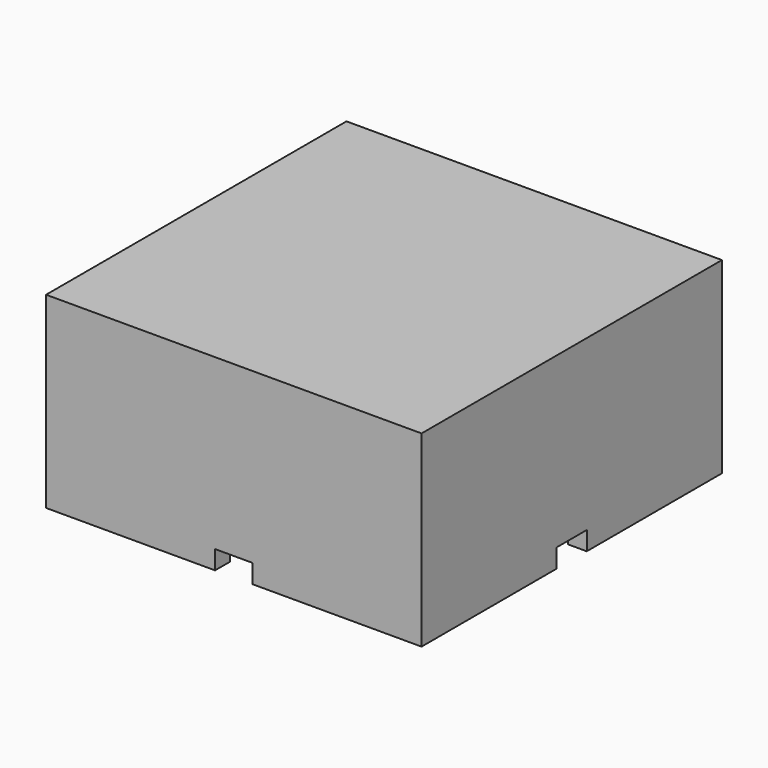
from build123d import *

# Parameters (mm, degrees)
BOX005_W     = 4
BOX005_H     = 2
BOX005_DEPTH = 2
BOX004_W     = 2
BOX004_H     = 4
BOX004_DEPTH = 2
BOX003_W     = 4
BOX003_H     = 2
BOX003_DEPTH = 2
BOX002_W     = 2
BOX002_H     = 4
BOX002_DEPTH = 2
BOX001_W     = 36
BOX001_H     = 36
BOX001_DEPTH = 18
BOX_W        = 40
BOX_H        = 40
BOX_DEPTH    = 20


with BuildPart() as cubo005:
    # Box005 → Box005 (new body)
    with BuildSketch(Plane(origin=(18, 38, 0), x_dir=(1, 0, 0), z_dir=(0, 0, 1))):
        with Locations((2, 1)):
            Rectangle(BOX005_W, BOX005_H)
    extrude(amount=BOX005_DEPTH)


with BuildPart() as cubo004:
    # Box004 → Box004 (new body)
    with BuildSketch(Plane(origin=(38, 18, 0), x_dir=(1, 0, 0), z_dir=(0, 0, 1))):
        with Locations((1, 2)):
            Rectangle(BOX004_W, BOX004_H)
    extrude(amount=BOX004_DEPTH)


with BuildPart() as cubo003:
    # Box003 → Box003 (new body)
    with BuildSketch(Plane(origin=(18, 0, 0), x_dir=(1, 0, 0), z_dir=(0, 0, 1))):
        with Locations((2, 1)):
            Rectangle(BOX003_W, BOX003_H)
    extrude(amount=BOX003_DEPTH)


with BuildPart() as cubo002:
    # Box002 → Box002 (new body)
    with BuildSketch(Plane(origin=(0, 18, 0), x_dir=(1, 0, 0), z_dir=(0, 0, 1))):
        with Locations((1, 2)):
            Rectangle(BOX002_W, BOX002_H)
    extrude(amount=BOX002_DEPTH)


with BuildPart() as cubo001:
    # Box001 → Box001 (new body)
    with BuildSketch(Plane(origin=(2, 2, 0), x_dir=(1, 0, 0), z_dir=(0, 0, 1))):
        with Locations((18, 18)):
            Rectangle(BOX001_W, BOX001_H)
    extrude(amount=BOX001_DEPTH)


with BuildPart() as cut004:
    # Box → Box (new body)
    with BuildSketch(Plane.XY):
        with Locations((20, 20)):
            Rectangle(BOX_W, BOX_H)
    extrude(amount=BOX_DEPTH)

    # Cut: cut Cubo001
    add(cubo001.part, mode=Mode.SUBTRACT)

    # Cut001: cut Cubo002
    add(cubo002.part, mode=Mode.SUBTRACT)

    # Cut002: cut Cubo003
    add(cubo003.part, mode=Mode.SUBTRACT)

    # Cut003: cut Cubo004
    add(cubo004.part, mode=Mode.SUBTRACT)

    # Cut004: cut Cubo005
    add(cubo005.part, mode=Mode.SUBTRACT)


solid = cut004.part
